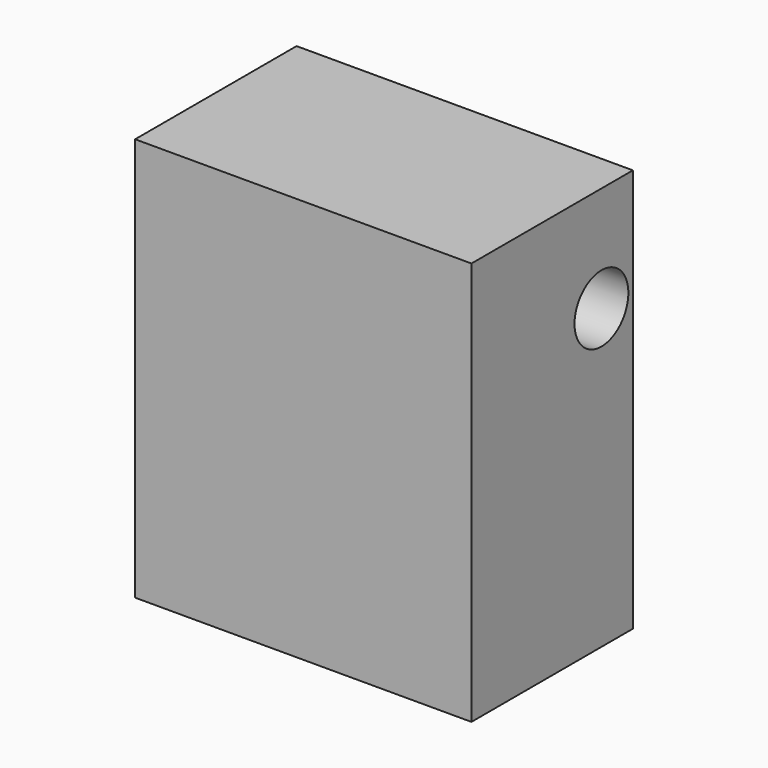
from build123d import *

# Parameters (mm, degrees)
F0_W     = 127
F0_H     = 76.2
F1_DEPTH = 152.4
F2_R     = 12.7
F3_DEPTH = 127.001


with BuildPart() as f1:
    # F0 (on Top) → F1 (new body)
    with BuildSketch(Plane.XY):
        with Locations((-63.5, 47.498914)):
            Rectangle(F0_W, F0_H)
    extrude(amount=F1_DEPTH)

    # F2 (on face) → F3 (cut, through all)
    with BuildSketch(Plane(origin=(-127, 0, 0), x_dir=(0, -1, 0), z_dir=(-1, 0, 0))):
        with Locations((-70.767127, 112.531073)):
            Circle(F2_R)
    extrude(amount=-F3_DEPTH, mode=Mode.SUBTRACT)


solid = f1.part
